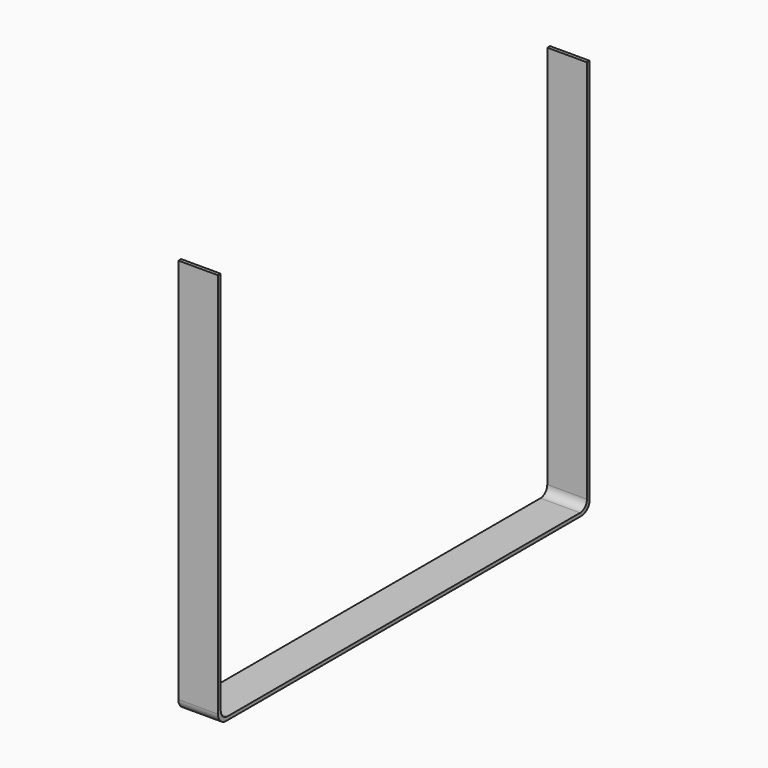
from build123d import *

# Parameters (mm, degrees)
F1_DEPTH = 7
F2_R     = 1.5
F3_R     = 1.8


with BuildPart() as f1:
    # F0 (on Right) → F1 (new body)
    with BuildSketch(Plane.YZ):
        Polygon((-40.4, 35), (-41, 35), (-41, -35), (41, -35), (41, 35), (40.4, 35), (40.4, -34.4), (-40.4, -34.4), align=None)
    extrude(amount=F1_DEPTH)

    # F2
    f2_edges = [f1.edges().sort_by_distance(p)[0] for p in [
        (3.5, -40.4, -34.4),
        (3.5, 40.4, -34.4),
    ]]
    fillet(f2_edges, radius=F2_R)

    # F3
    f3_edges = [f1.edges().sort_by_distance(p)[0] for p in [
        (3.5, -41, -35),
        (3.5, 41, -35),
    ]]
    fillet(f3_edges, radius=F3_R)


solid = f1.part
